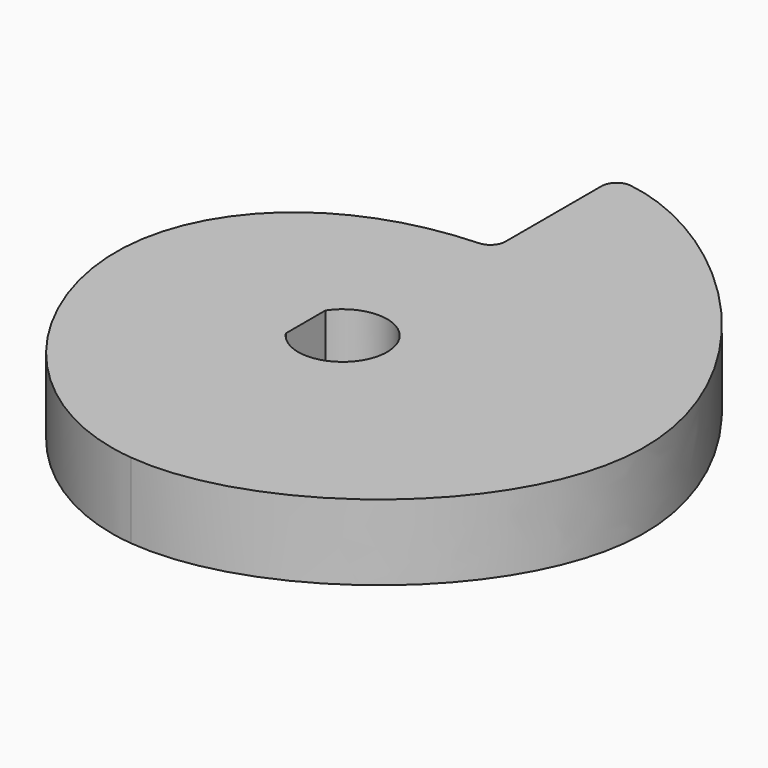
from build123d import *

# Parameters (mm, degrees)
F1_DEPTH = 5
F3_DEPTH = 5


with BuildPart() as f1:
    # F0 (on Top) → F1 (new body)
    with BuildSketch(Plane.XY):
        with BuildLine():
            ThreePointArc((1.1420704693, 22.4149806807), (0.3450459823, 22.180792868), (0, 21.4251241346))
            Line((0, 21.4251241346), (0, 13.4793751215))
            ThreePointArc((0, 13.4793751215), (-0.2783323598, 12.7871354108), (-0.9583916341, 12.4802411245))
            add(Edge.make_bspline(
                [(-0.9583916341, 12.4802411245), (-9.7677869501, 12.1133788767), (-20.8879182433, 0.572881244), (-8.3742030553, -16.6290905544), (0, -17.5)],
                knots=[0.0076786773, 0.0076786773, 0.0076786773, 0.0076786773, 0.2224792249, 0.4641987518, 0.4641987518, 0.4641987518, 0.4641987518], degree=3))
            add(Edge.make_bspline(
                [(0, -17.5), (8.9920428291, -18.4351642161), (31.1411413145, -1.2068050011), (8.7240631606, 21.3267651565), (1.1420704693, 22.4149806807)],
                knots=[0.4641987518, 0.4641987518, 0.4641987518, 0.4641987518, 0.7237520877, 0.9864457327, 0.9864457327, 0.9864457327, 0.9864457327], degree=3))
        make_face()
    extrude(amount=F1_DEPTH)

    # F2 (on face) → F3 (cut)
    with BuildSketch(Plane.XY.offset(5)):
        with BuildLine():
            ThreePointArc((-2.45, -1.6431676725), (2.95, 0), (-2.45, 1.6431676725))
            Line((-2.45, 1.6431676725), (-2.45, -1.6431676725))
        make_face()
    extrude(amount=-F3_DEPTH, mode=Mode.SUBTRACT)


solid = f1.part
